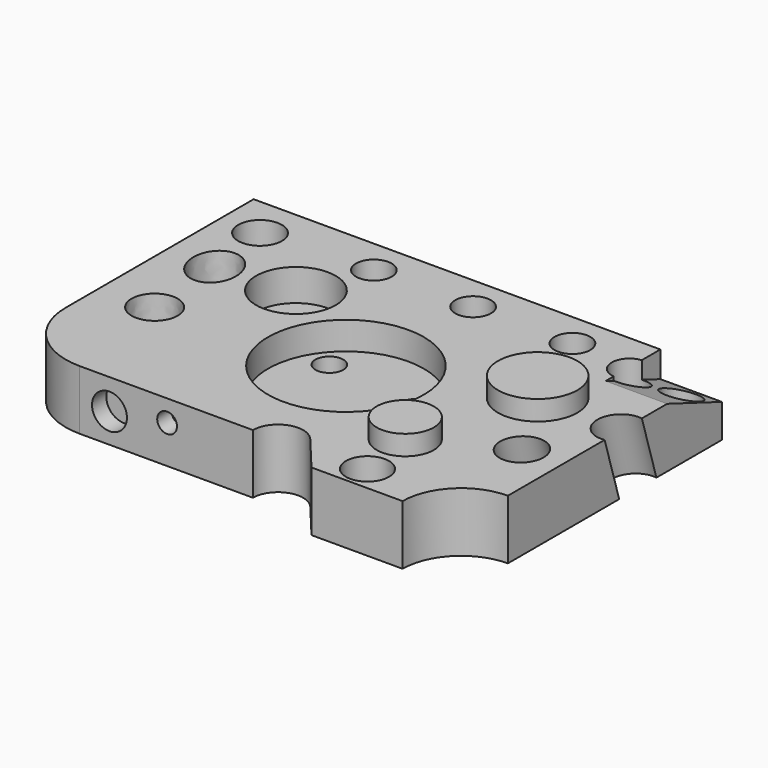
from build123d import *

# Parameters (mm, degrees)
SKETCH_R            = 11
PAD_DEPTH           = 30
SKETCH001_R         = 9
POCKET_DEPTH        = 20
LINEARPATTERN_COUNT = 3
LINEARPATTERN_PITCH = 50
SKETCH002_R         = 7
POCKET001_DEPTH     = 50
POLARPATTERN_COUNT  = 3
SKETCH003_R         = 19.967924
PAD001_DEPTH        = 10
SKETCH004_R         = 14.399073
PAD002_DEPTH        = 10
SKETCH005_W         = 21.458343
SKETCH005_H         = 14.30555
POCKET002_DEPTH     = 17
SKETCH006_R         = 8.796322
SKETCH006_R_2       = 4.979109
POCKET003_DEPTH     = 9
SKETCH007_R         = 9.153596
SKETCH007_R_2       = 8.864849
POCKET004_DEPTH     = 30.001
POCKET005_DEPTH     = 31
SKETCH009_R         = 20.022399
POCKET006_DEPTH     = 16
SKETCH010_R         = 8.593369
POCKET007_DEPTH     = 40.001
SKETCH011_R         = 11.332892
SKETCH011_R_2       = 10.918962
POCKET008_DEPTH     = 97.499965
SKETCH012_R         = 10.84482
POCKET009_DEPTH     = 30.001
SKETCH013_R         = 39.253436
POCKET010_DEPTH     = 14
SKETCH014_R         = 7.394899
SKETCH014_R_2       = 7.809856
POCKET011_DEPTH     = 5


with BuildPart() as part:
    # Sketch → Pad (new body)
    with BuildSketch(Plane.XY):
        with BuildLine():
            Line((-116.998733, 88.162117), (-116.998733, -30.136229))
            ThreePointArc((-116.998733, -30.136229), (-106.631848, -55.164103), (-81.603974, -65.530988))
            Line((-81.603974, -65.530988), (5.609326, -65.530988))
            ThreePointArc((5.609326, -65.530988), (13.956653, -53.631582), (27.986873, -57.429828))
            Line((27.986873, -57.429828), (43.47437, -76.016704))
            Line((43.47437, -76.016704), (89.343571, -76.016704))
            ThreePointArc((89.343571, -76.016704), (97.973142, -55.183078), (118.806768, -46.553507))
            Line((118.806768, -46.553507), (118.806768, 88.162117))
            Line((118.806768, 88.162117), (-116.998733, 88.162117))
        make_face()
        with Locations((-97.09697, 67.319939)):
            Circle(SKETCH_R, mode=Mode.SUBTRACT)
        with BuildLine():
            add(Edge.make_bspline(
                [(-89.9422, 20.036238), (-70.566539, 24.4398), (-84.920526, 42.769094), (-99.274513, 61.098387), (-104.296187, 38.365531), (-109.317861, 15.632676), (-89.9422, 20.036238)],
                knots=[0, 0, 0, 2.094395, 2.094395, 4.18879, 4.18879, 6.283185, 6.283185, 6.283185], degree=2, weights=[1, 0.5, 1, 0.5, 1, 0.5, 1]))
        make_face(mode=Mode.SUBTRACT)
        with BuildLine():
            add(Edge.make_bspline(
                [(-83.683794, -17.756454), (-66.719647, -6.918242), (-84.587887, 2.354035), (-102.456128, 11.626311), (-101.552035, -8.484177), (-100.647941, -28.594666), (-83.683794, -17.756454)],
                knots=[0, 0, 0, 2.094395, 2.094395, 4.18879, 4.18879, 6.283185, 6.283185, 6.283185], degree=2, weights=[1, 0.5, 1, 0.5, 1, 0.5, 1]))
        make_face(mode=Mode.SUBTRACT)
    extrude(amount=PAD_DEPTH)

    # Sketch001 (on Face14 of Pad) → Pocket (cut)
    with BuildSketch(Plane.XY.offset(30)):
        with Locations((-42.38636, 70.557236)):
            Circle(SKETCH001_R)
    pocket = extrude(amount=-POCKET_DEPTH, mode=Mode.SUBTRACT)

    # LinearPattern: Pocket ×3
    with Locations(*[(i * LINEARPATTERN_PITCH, 0, 0) for i in range(1, LINEARPATTERN_COUNT)]):
        add(pocket, mode=Mode.SUBTRACT)

    # Sketch002 (on Face5 of LinearPattern) → Pocket001 (cut)
    with BuildSketch(Plane.XY.offset(30)):
        with Locations((-22.517538, 17.706181)):
            Circle(SKETCH002_R)
    pocket001 = extrude(amount=-POCKET001_DEPTH, mode=Mode.SUBTRACT)

    # PolarPattern: Pocket001 ×3 about axis
    polarpattern_axis = Axis((0, 0, 30), (0, 0, 1))
    for i in range(1, POLARPATTERN_COUNT):
        add(pocket001.rotate(polarpattern_axis, i * 360 / POLARPATTERN_COUNT), mode=Mode.SUBTRACT)

    # Sketch003 (on Face5 of PolarPattern) → Pad001 (join)
    with BuildSketch(Plane.XY.offset(30)):
        with Locations((76.03183, 25.653826)):
            Circle(SKETCH003_R)
    extrude(amount=PAD001_DEPTH)

    # Sketch004 (on Face5 of Pad001) → Pad002 (join)
    with BuildSketch(Plane.XY.offset(30)):
        with Locations((57.355137, -34.349995)):
            Circle(SKETCH004_R)
    extrude(amount=PAD002_DEPTH)

    # Sketch005 (on Face27 of Pad002) → Pocket002 (cut)
    with BuildSketch(Plane.XY.offset(10)):
        with Locations((70.468574, -35.939503)):
            Rectangle(SKETCH005_W, SKETCH005_H)
    extrude(amount=-POCKET002_DEPTH, mode=Mode.SUBTRACT)

    # Sketch006 (on Face7 of Pocket002) → Pocket003 (cut)
    with BuildSketch(Plane.XZ.offset(65.530988)):
        with Locations((-66.626236, 14.801361)):
            Circle(SKETCH006_R)
        with Locations((-37.617748, 19.172501)):
            Circle(SKETCH006_R_2)
    extrude(amount=-POCKET003_DEPTH, mode=Mode.SUBTRACT)

    # Sketch007 (on Face5 of Pocket003) → Pocket004 (cut, through all)
    with BuildSketch(Plane.XY.offset(30)):
        with Locations((108.318863, 75.721344)):
            Circle(SKETCH007_R)
        with Locations((88.660011, 67.626526)):
            Circle(SKETCH007_R_2)
    extrude(amount=-POCKET004_DEPTH, mode=Mode.SUBTRACT)

    # Sketch008 (on Face6 of Pocket004) → Pocket005 (cut)
    with BuildSketch(Plane.YZ.offset(118.806768)):
        Polygon((50.459274, 31.226437), (92.608627, 15.141857), (92.608627, 31.226437), align=None)
    extrude(amount=-POCKET005_DEPTH, mode=Mode.SUBTRACT)

    # Sketch009 (on Face5 of Pocket005) → Pocket006 (cut)
    with BuildSketch(Plane.XY.offset(30)):
        with Locations((-55.455776, 37.852962)):
            Circle(SKETCH009_R)
    extrude(amount=-POCKET006_DEPTH, mode=Mode.SUBTRACT)

    # Sketch010 (on Face39 of Pocket006) → Pocket007 (cut, through all)
    with BuildSketch(Plane.XY.offset(40)):
        with Locations((-93.052971, 33.723621)):
            Circle(SKETCH010_R)
    extrude(amount=-POCKET007_DEPTH, mode=Mode.SUBTRACT)

    # Sketch011 (on DatumPlane) → Pocket008 (cut, through all)
    with BuildSketch(Plane(origin=(0, 0, 75), x_dir=(1, 0, 0), z_dir=(0, -0.292372, 0.956305))):
        with Locations((117.145973, 11.75148)):
            Circle(SKETCH011_R)
        with Locations((98.487206, -24.922645)):
            Circle(SKETCH011_R_2)
    extrude(amount=-POCKET008_DEPTH, mode=Mode.SUBTRACT)

    # Sketch012 (on Face5 of Pocket008) → Pocket009 (cut, through all)
    with BuildSketch(Plane.XY.offset(30)):
        with Locations((61.420666, -63.195797)):
            Circle(SKETCH012_R)
    extrude(amount=-POCKET009_DEPTH, mode=Mode.SUBTRACT)

    # Sketch013 (on Face5 of Pocket009) → Pocket010 (cut)
    with BuildSketch(Plane.XY.offset(30)):
        Circle(SKETCH013_R)
    extrude(amount=-POCKET010_DEPTH, mode=Mode.SUBTRACT)

    # Sketch014 (on Face4 of Pocket010) → Pocket011 (cut)
    with BuildSketch(Plane(origin=(0, 0, 0), x_dir=(1, 0, 0), z_dir=(0, 0, -1))):
        with Locations((28.116121, -45.81057)):
            Circle(SKETCH014_R)
        with Locations((46.924786, -32.839085)):
            Circle(SKETCH014_R_2)
    extrude(amount=-POCKET011_DEPTH, mode=Mode.SUBTRACT)


solid = part.part
